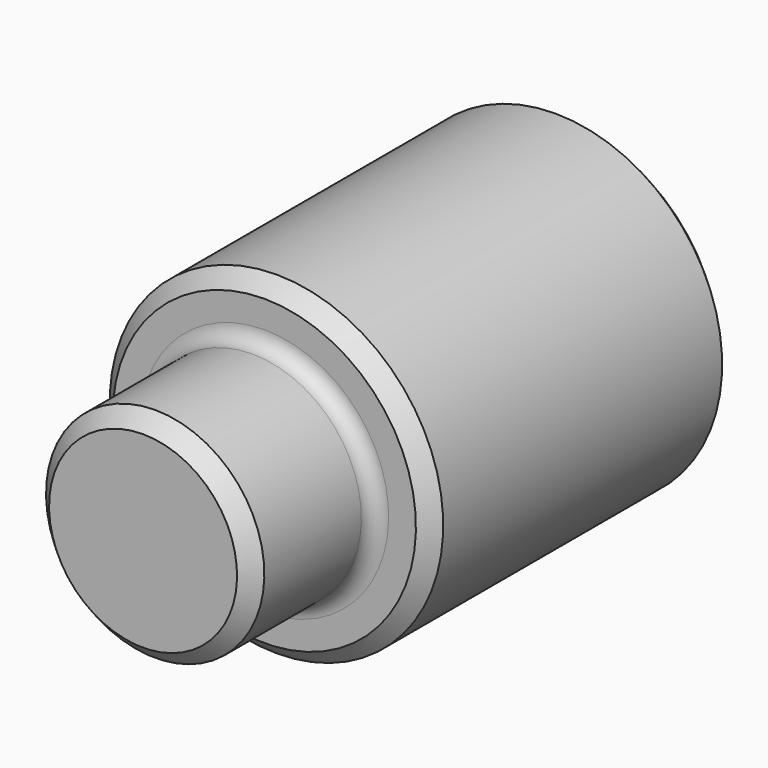
from build123d import *

# Parameters (mm, degrees)
F2_SIZE = 1
F3_R    = 1


with BuildPart() as f1:
    # F0 (on Right) → F1 (revolve)
    with BuildSketch(Plane.YZ):
        Polygon((0, 7.2), (0, 0), (19, 0), (19, 3.005), (35, 3.005), (35, 11), (10, 11), (10, 7.2), align=None)
    revolve(axis=Axis((0, 9.5, 0), (0, -1, 0)))

    # F2
    f2_edges = [f1.edges().sort_by_distance(p)[0] for p in [
        (0, 0, -7.2),
        (0, 10, -11),
        (0, 35, -11),
        (0, 35, -3.005),
    ]]
    chamfer(f2_edges, length=F2_SIZE)

    # F3
    f3_edges = [f1.edges().sort_by_distance(p)[0] for p in [
        (0, 10, -7.2),
    ]]
    fillet(f3_edges, radius=F3_R)


solid = f1.part
